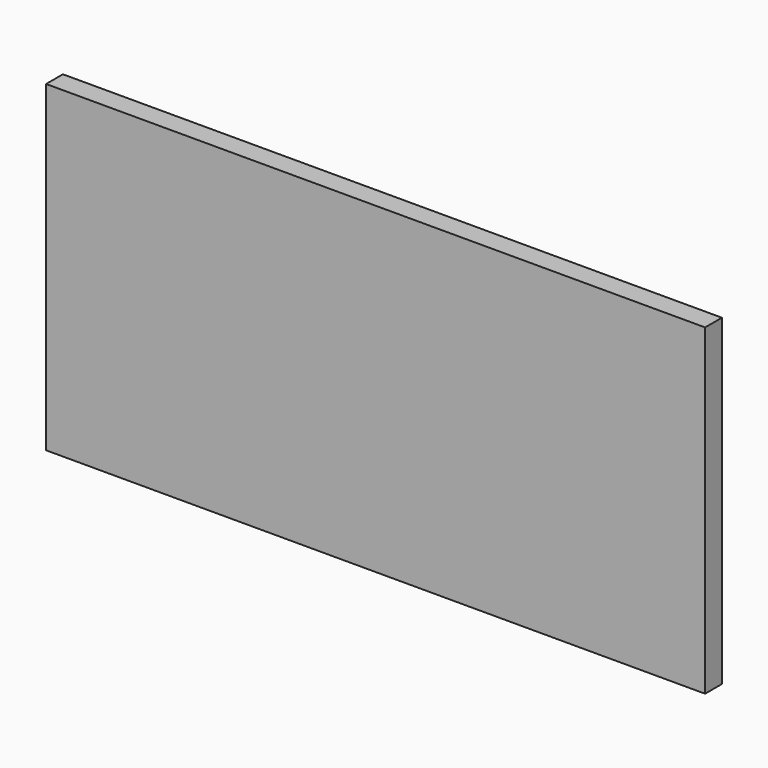
from build123d import *

# Parameters (mm, degrees)
F0_W      = 38.1
F0_H      = 6.35
F1_DEPTH  = 6.35
F2_W      = 24.13
F2_H      = 6.35
F3_DEPTH  = 3.175
F4_W      = 6.35
F4_H      = 6.35
F5_DEPTH  = 3.175
F7_R      = 1.27
F8_DEPTH  = 6.35
F9_DEPTH  = 25.4
F11_W     = 596.9
F11_H     = 292.1
F12_DEPTH = 19.05


with BuildPart() as f1:
    # F0 (on Front) → F1 (new body)
    with BuildSketch(Plane.XZ):
        with Locations((-0.394788, 28.036902)):
            Rectangle(F0_W, F0_H)
    extrude(amount=F1_DEPTH)

    # F2 (on face) → F3 (cut)
    with BuildSketch(Plane.XZ.offset(6.35)):
        with Locations((-0.42647, 28.036902)):
            Rectangle(F2_W, F2_H)
    extrude(amount=-F3_DEPTH, mode=Mode.SUBTRACT)

    # F4 (on face) → F5 (cut)
    with BuildSketch(Plane(origin=(0, 0, 0), x_dir=(-1, 0, 0), z_dir=(0, 1, 0))):
        with Locations((-15.480212, 28.036902)):
            Rectangle(F4_W, F4_H)
        Polygon((19.444788, 31.211902), (13.094788, 31.211902), (13.094788, 24.861902), (19.444788, 24.861902), (19.444788, 30.75934), align=None)
    extrude(amount=-F5_DEPTH, mode=Mode.SUBTRACT)

    # F7 (on face) → F8 (cut)
    with BuildSketch(Plane.XZ.offset(6.35)):
        with Locations((-16.269788, 28.0362)):
            Circle(F7_R)
        with Locations((15.480212, 28.036902)):
            Circle(F7_R)
    extrude(amount=-F8_DEPTH, mode=Mode.SUBTRACT)

    # F6 (on face) → F9 (cut)
    with BuildSketch(Plane(origin=(0, 0, 0), x_dir=(-1, 0, 0), z_dir=(0, 1, 0))):
        Polygon((0, 26.97348), (-12.305212, 24.861902), (13.094788, 24.861902), align=None)
    extrude(amount=-F9_DEPTH, mode=Mode.SUBTRACT)


with BuildPart() as f12:
    # F11 (on offset) → F12 (new body)
    with BuildSketch(Plane.XZ.offset(6.35)):
        with Locations((39.993554, 20.220205)):
            Rectangle(F11_W, F11_H)
    extrude(amount=F12_DEPTH)


with BuildPart() as f13_1:
    # F13: copy of F1
    add(f1.part.moved(Location((254, 0, 0))))


with BuildPart() as f1_1:
    # F14: moved
    add(f1.part.moved(Location((-127, 0, 0))))


with BuildPart() as f1_2:
    # F15: moved
    add(f1_1.part.moved(Location((-25.4, 0, 0))))


solid = Compound([f12.part, f13_1.part, f1_2.part])
